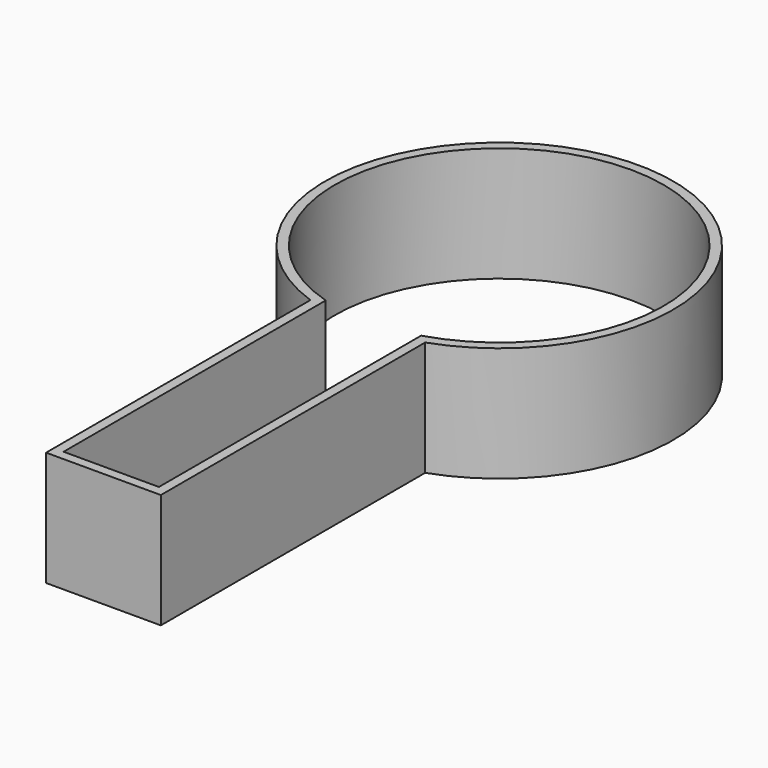
from build123d import *

# Parameters (mm, degrees)
F1_DEPTH = 30
F2_T     = -2.54


with BuildPart() as f1:
    # F0 (on Top) → F1 (new body)
    with BuildSketch(Plane.XY):
        with BuildLine():
            Line((15, -129.3097395662), (15, -42.9497395662))
            ThreePointArc((15, -42.9497395662), (0, 45.4937372481), (-15, -42.9497395662))
            Line((-15, -42.9497395662), (-15, -129.3097395662))
            Line((-15, -129.3097395662), (15, -129.3097395662))
        make_face()
    extrude(amount=F1_DEPTH)

    # F2
    f2_openings = [f1.faces().sort_by_distance(p)[0] for p in [
        (0, -24.43063, 30),
        (0, -24.43063, 0),
    ]]
    offset(amount=F2_T, openings=f2_openings, kind=Kind.INTERSECTION)


solid = f1.part
